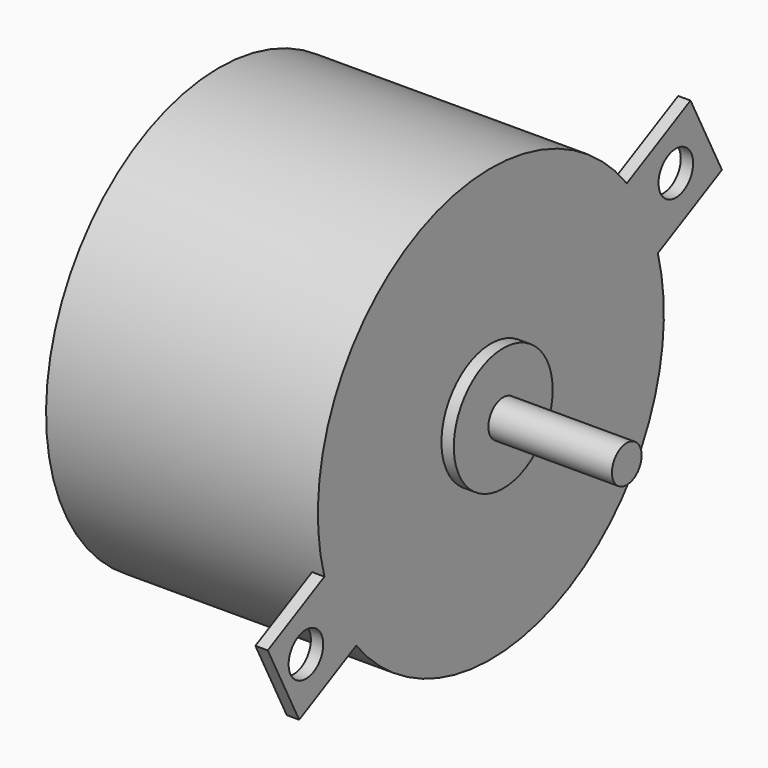
from build123d import *

# Parameters (mm, degrees)
CYLINDER129_R             = 1.75
CYLINDER129_DEPTH         = 26
CYLINDER131_R             = 1.75
CYLINDER131_DEPTH         = 26
BOX066_W                  = 7
BOX066_H                  = 48
BOX066_DEPTH              = 1
CYLINDER132_R             = 1.5
CYLINDER132_DEPTH         = 10
CYLINDER130_R             = 5
CYLINDER130_DEPTH         = 1
CYLINDER128_R             = 17.5
CYLINDER128_DEPTH         = 22
FUSION092_ROLL_ANGLE      = 90.000432
FUSION092_PITCH_ANGLE     = 62.999717
FUSION092_PLACEMENT_ANGLE = 90.000641


with BuildPart() as cylinder129:
    # Cylinder129 → Cylinder129 (new body)
    with BuildSketch(Plane(origin=(0, 21, 0), x_dir=(1, 0, 0), z_dir=(0, 0, 1))):
        Circle(CYLINDER129_R)
    extrude(amount=CYLINDER129_DEPTH)


with BuildPart() as cylinder131:
    # Cylinder131 → Cylinder131 (new body)
    with BuildSketch(Plane(origin=(0, -21, 0), x_dir=(1, 0, 0), z_dir=(0, 0, 1))):
        Circle(CYLINDER131_R)
    extrude(amount=CYLINDER131_DEPTH)


with BuildPart() as cut183:
    # Box066 → Box066 (new body)
    with BuildSketch(Plane(origin=(-3.4, -23.6, 22), x_dir=(1, 0, 0), z_dir=(0, 0, 1))):
        with Locations((3.5, 24)):
            Rectangle(BOX066_W, BOX066_H)
    extrude(amount=BOX066_DEPTH)

    # Cut182: cut Cylinder131
    add(cylinder131.part, mode=Mode.SUBTRACT)

    # Cut183: cut Cylinder129
    add(cylinder129.part, mode=Mode.SUBTRACT)


with BuildPart() as cut183_1:
    # Cut183 placement: moved
    add(cut183.part.moved(Location((0, 0, -1))))


with BuildPart() as cylinder132:
    # Cylinder132 → Cylinder132 (new body)
    with BuildSketch(Plane.XY.offset(23)):
        Circle(CYLINDER132_R)
    extrude(amount=CYLINDER132_DEPTH)


with BuildPart() as cylinder130:
    # Cylinder130 → Cylinder130 (new body)
    with BuildSketch(Plane.XY.offset(22)):
        Circle(CYLINDER130_R)
    extrude(amount=CYLINDER130_DEPTH)


with BuildPart() as fusion092:
    # Cylinder128 → Cylinder128 (new body)
    with BuildSketch(Plane.XY):
        Circle(CYLINDER128_R)
    extrude(amount=CYLINDER128_DEPTH)

    # Fusion092: union Cut183, Cylinder132, Cylinder130
    add(cut183_1.part)
    add(cylinder132.part)
    add(cylinder130.part)


with BuildPart() as fusion092_1:
    # Fusion092 roll: moved
    add(fusion092.part.rotate(Axis((0, 0, 0), (1, 0, 0)), FUSION092_ROLL_ANGLE))


with BuildPart() as fusion092_2:
    # Fusion092 pitch: moved
    add(fusion092_1.part.rotate(Axis((0, 0, 0), (0, 1, 0)), FUSION092_PITCH_ANGLE))


with BuildPart() as fusion092_3:
    # Fusion092 placement: moved
    add(fusion092_2.part.moved(Location((77.100367, 12.900556, 96.792998))).rotate(Axis((77.100367, 12.900556, 96.792998), (0, 0, 1)), FUSION092_PLACEMENT_ANGLE))


solid = fusion092_3.part
